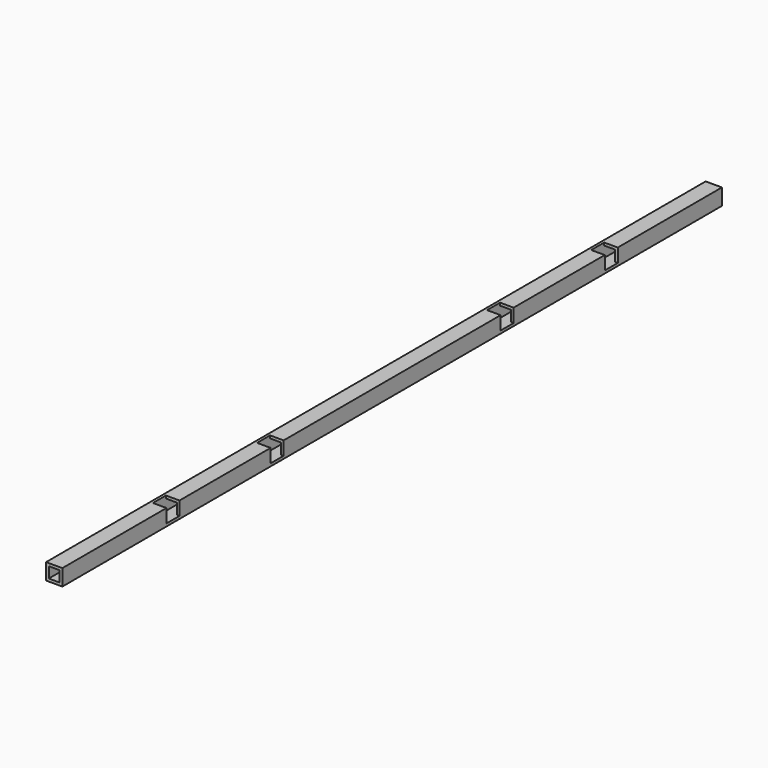
from build123d import *

# Parameters (mm, degrees)
F0_W     = 19.05
F0_H     = 19.05
F0_W_2   = 12.7
F0_H_2   = 12.7
F1_DEPTH = 965.2
F2_W     = 15.875
F2_H     = 19.05
F3_DEPTH = 15.875


with BuildPart() as f1:
    # F0 (on Front) → F1 (new body)
    with BuildSketch(Plane.XZ):
        Rectangle(F0_W, F0_H)
        Rectangle(F0_W_2, F0_H_2, mode=Mode.SUBTRACT)
    extrude(amount=F1_DEPTH)

    # F2 (on face) → F3 (cut)
    with BuildSketch(Plane.XY.offset(9.525)):
        with Locations((1.5875, -803.275)):
            Rectangle(F2_W, F2_H)
        with Locations((1.5875, -650.875)):
            Rectangle(F2_W, F2_H)
        with Locations((1.5875, -314.325)):
            Rectangle(F2_W, F2_H)
        with Locations((1.5875, -161.925)):
            Rectangle(F2_W, F2_H)
    extrude(amount=-F3_DEPTH, mode=Mode.SUBTRACT)


solid = f1.part
